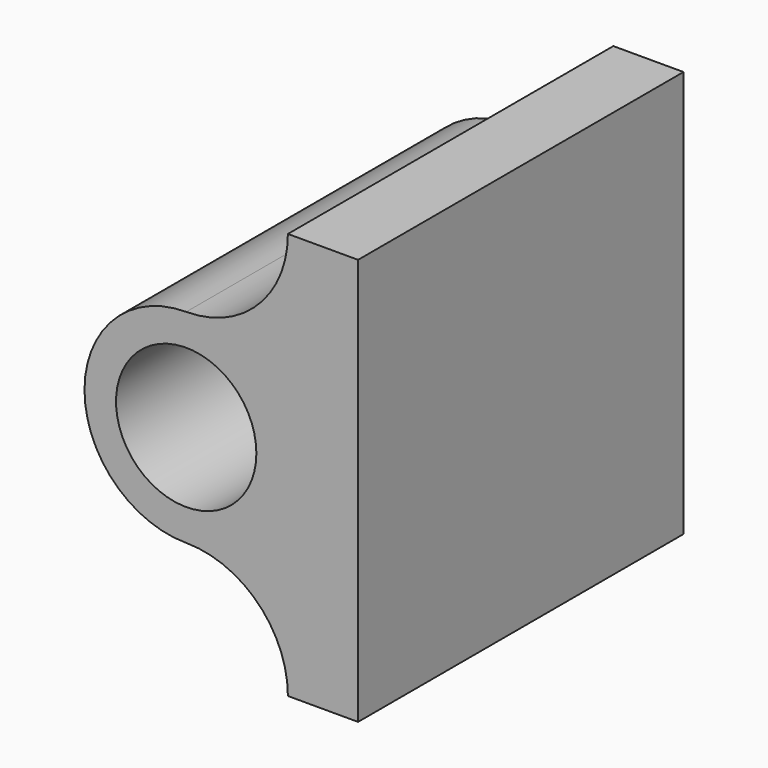
from build123d import *

# Parameters (mm, degrees)
SKETCH017_R  = 6.9
PAD007_DEPTH = 20


with BuildPart() as part:
    # Sketch017 → Pad007 (new body, symmetric)
    with BuildSketch(Plane.XZ.offset(-200)):
        with BuildLine():
            ThreePointArc((21, 40.7), (11, 30.7), (21, 20.7))
            ThreePointArc((31, 10.7), (28.071068, 17.771068), (21, 20.7))
            Line((37.9, 10.7), (31, 10.7))
            Line((37.9, 50.7), (37.9, 10.7))
            Line((31, 50.7), (37.9, 50.7))
            ThreePointArc((21, 40.7), (28.071068, 43.628932), (31, 50.7))
        make_face()
        with Locations((21, 30.7)):
            Circle(SKETCH017_R, mode=Mode.SUBTRACT)
    extrude(amount=PAD007_DEPTH, both=True)


solid = part.part
